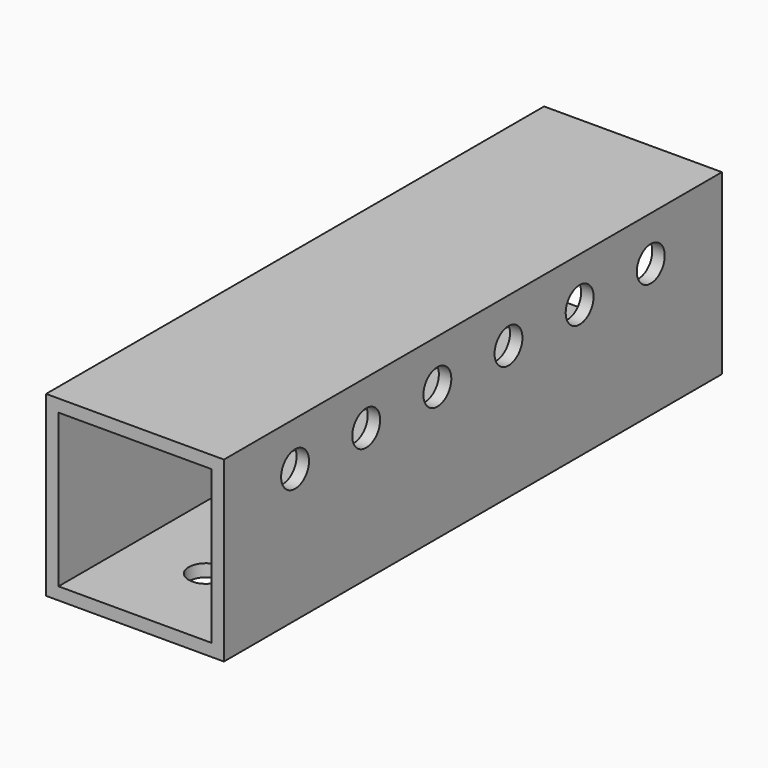
from build123d import *

# Parameters (mm, degrees)
F0_W     = 25.4
F0_H     = 25.4
F0_W_2   = 21.844
F0_H_2   = 21.844
F1_DEPTH = 88.9
F2_R     = 2.4892
F3_DEPTH = 25.4
F4_R     = 2.4892
F5_DEPTH = 1.778


with BuildPart() as f1:
    # F0 (on Front) → F1 (new body)
    with BuildSketch(Plane.XZ):
        with Locations((-12.7, 12.7)):
            Rectangle(F0_W, F0_H)
        with Locations((-12.7, 12.7)):
            Rectangle(F0_W_2, F0_H_2, mode=Mode.SUBTRACT)
    extrude(amount=F1_DEPTH)

    # F2 (on face) → F3 (cut)
    with BuildSketch(Plane(origin=(-25.4, 0, 0), x_dir=(0, -1, 0), z_dir=(-1, 0, 0))):
        with Locations((12.7, 19.05)):
            Circle(F2_R)
        with Locations((25.4, 19.05)):
            Circle(F2_R)
        with Locations((38.1, 19.05)):
            Circle(F2_R)
        with Locations((50.8, 19.05)):
            Circle(F2_R)
        with Locations((63.5, 19.05)):
            Circle(F2_R)
        with Locations((76.2, 19.05)):
            Circle(F2_R)
    extrude(amount=-F3_DEPTH, mode=Mode.SUBTRACT)

    # F4 (on face) → F5 (cut, through all)
    with BuildSketch(Plane(origin=(0, 0, 0), x_dir=(1, 0, 0), z_dir=(0, 0, -1))):
        with Locations((-12.7, 76.2)):
            Circle(F4_R)
        with Locations((-12.7, 63.5)):
            Circle(F4_R)
        with Locations((-12.7, 50.8)):
            Circle(F4_R)
        with Locations((-12.7, 38.1)):
            Circle(F4_R)
        with Locations((-12.7, 25.4)):
            Circle(F4_R)
        with Locations((-12.7, 12.7)):
            Circle(F4_R)
    extrude(amount=-F5_DEPTH, mode=Mode.SUBTRACT)


solid = f1.part
